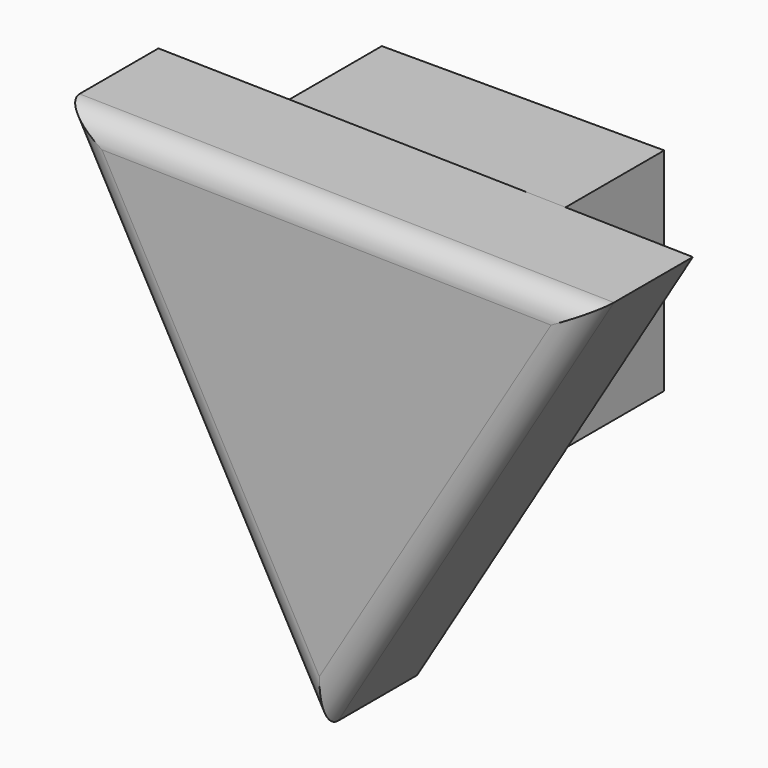
from build123d import *

# Parameters (mm, degrees)
F1_DEPTH = 25.4
F2_W     = 58.1890912727
F2_H     = 43.6418224126
F3_DEPTH = 25.4
F4_R     = 5.08


with BuildPart() as f1:
    # F0 (on Front) → F1 (new body)
    with BuildSketch(Plane.XZ):
        Polygon((-36.4606332477, -31.5460583245), (20.3657772835, 62.8072192942), (-89.7597633302, 64.8436956108), align=None)
    extrude(amount=F1_DEPTH)

    # F2 (on Front) + F1_face (on face) → F3 (join)
    with BuildSketch(Plane.XZ):
        with Locations((-34.9458768032, 41.4752056822)):
            Rectangle(F2_W, F2_H)
    with BuildSketch(Plane(origin=(-35.2848730981, -25.4, 32.0349521935), x_dir=(1, 0, 0), z_dir=(0, -1, 0))):
        Polygon((-1.1757601496, -63.581010518), (55.6506503816, 30.7722671007), (-54.4748902321, 32.8087434173), align=None)
    extrude(amount=-F3_DEPTH)

    # F4
    f4_edges = [f1.edges().sort_by_distance(p)[0] for p in [
        (-8.047428, -25.4, 15.63058),
        (-34.696993, -25.4, 63.825457),
        (-63.110198, -25.4, 16.648819),
    ]]
    fillet(f4_edges, radius=F4_R)


solid = f1.part
